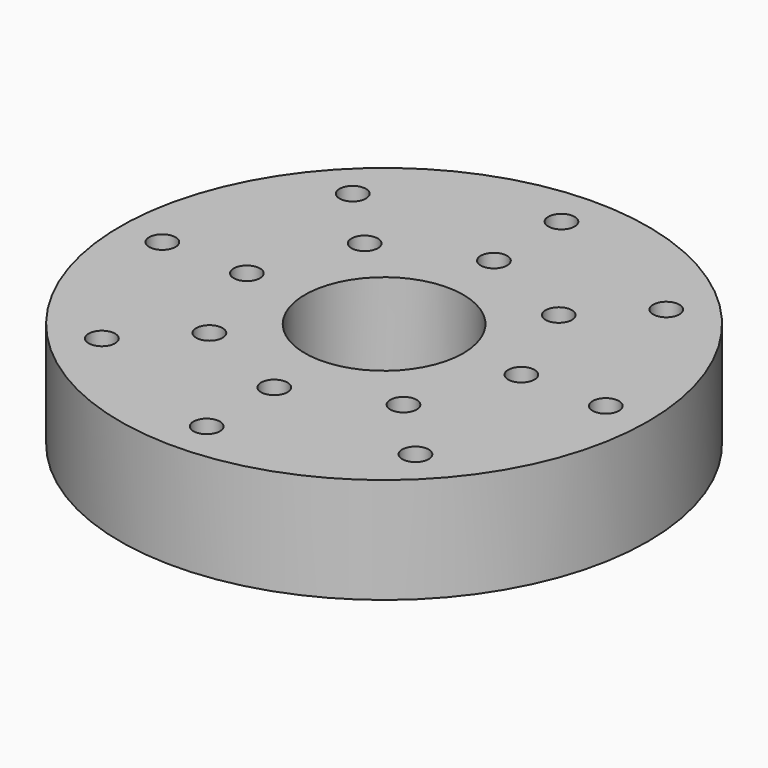
from build123d import *

# Parameters (mm, degrees)
F0_R     = 50
F0_R_2   = 2.5
F0_R_3   = 15
F1_DEPTH = 20


with BuildPart() as f1:
    # F0 (on Top) → F1 (new body)
    with BuildSketch(Plane.XY):
        Circle(F0_R)
        with Locations((-29.698485, -29.698485)):
            Circle(F0_R_2, mode=Mode.SUBTRACT)
        with Locations((-18.384776, -18.384776)):
            Circle(F0_R_2, mode=Mode.SUBTRACT)
        with Locations((0, -42)):
            Circle(F0_R_2, mode=Mode.SUBTRACT)
        with Locations((0, -26)):
            Circle(F0_R_2, mode=Mode.SUBTRACT)
        with Locations((29.698485, -29.698485)):
            Circle(F0_R_2, mode=Mode.SUBTRACT)
        with Locations((18.384776, -18.384776)):
            Circle(F0_R_2, mode=Mode.SUBTRACT)
        with Locations((-42, 0)):
            Circle(F0_R_2, mode=Mode.SUBTRACT)
        with Locations((-26, 0)):
            Circle(F0_R_2, mode=Mode.SUBTRACT)
        with Locations((-18.384776, 18.384776)):
            Circle(F0_R_2, mode=Mode.SUBTRACT)
        with Locations((-29.698485, 29.698485)):
            Circle(F0_R_2, mode=Mode.SUBTRACT)
        Circle(F0_R_3, mode=Mode.SUBTRACT)
        with Locations((18.384776, 18.384776)):
            Circle(F0_R_2, mode=Mode.SUBTRACT)
        with Locations((26, 0)):
            Circle(F0_R_2, mode=Mode.SUBTRACT)
        with Locations((42, 0)):
            Circle(F0_R_2, mode=Mode.SUBTRACT)
        with Locations((0, 26)):
            Circle(F0_R_2, mode=Mode.SUBTRACT)
        with Locations((0, 42)):
            Circle(F0_R_2, mode=Mode.SUBTRACT)
        with Locations((29.698485, 29.698485)):
            Circle(F0_R_2, mode=Mode.SUBTRACT)
    extrude(amount=F1_DEPTH)


solid = f1.part
